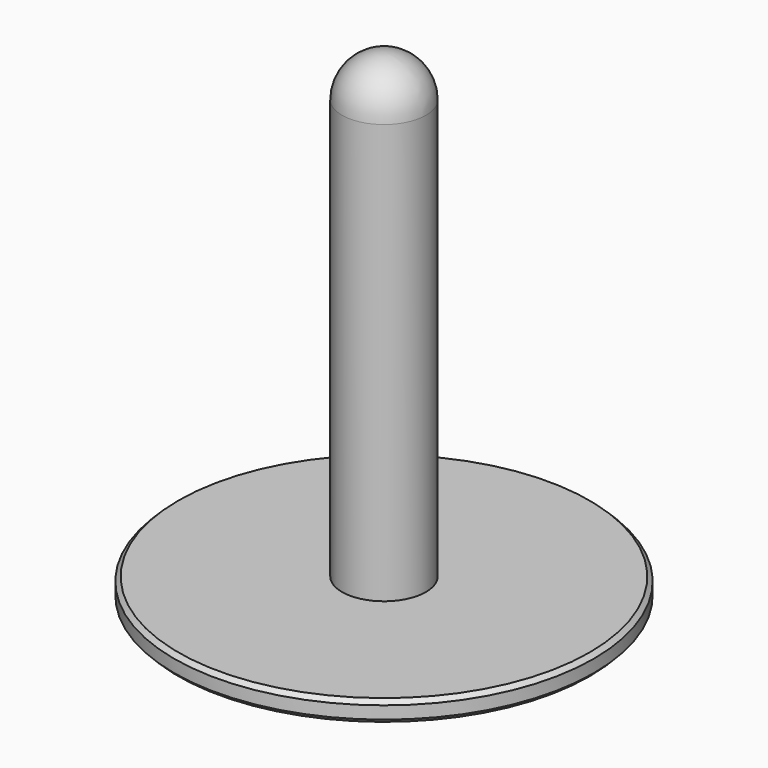
from build123d import *

# Parameters (mm, degrees)
F0_R     = 50
F1_DEPTH = 5
F2_R     = 10
F3_DEPTH = 100
F4_R     = 9.2
F5_DEPTH = 95
F6_SIZE  = 1


with BuildPart() as f1:
    # F0 (on Top) → F1 (new body)
    with BuildSketch(Plane.XY):
        Circle(F0_R)
    extrude(amount=F1_DEPTH)

    # F2 (on face) → F3 (join)
    with BuildSketch(Plane.XY.offset(5)):
        Circle(F2_R)
    extrude(amount=F3_DEPTH)

    # F4 (on face) → F5 (cut, through all)
    with BuildSketch(Plane.XY.offset(105)):
        Circle(F4_R)
    extrude(amount=-F5_DEPTH, mode=Mode.SUBTRACT)

    # F6
    f6_edges = [f1.edges().sort_by_distance(p)[0] for p in [
        (-50, 0, 5),
        (-50, 0, 0),
    ]]
    chamfer(f6_edges, length=F6_SIZE)

    # F7 (on Front) → F8 (revolve)
    with BuildSketch(Plane.XZ):
        with BuildLine():
            Line((9.2, 105), (10, 105))
            ThreePointArc((10, 105), (7.0710678119, 112.0710678119), (0, 115))
            Line((0, 115), (0, 114.2))
            ThreePointArc((0, 114.2), (6.5053823869, 111.5053823869), (9.2, 105))
        make_face()
    revolve(axis=Axis((0, 0, 109.6), (0, 0, 1)))


solid = f1.part
